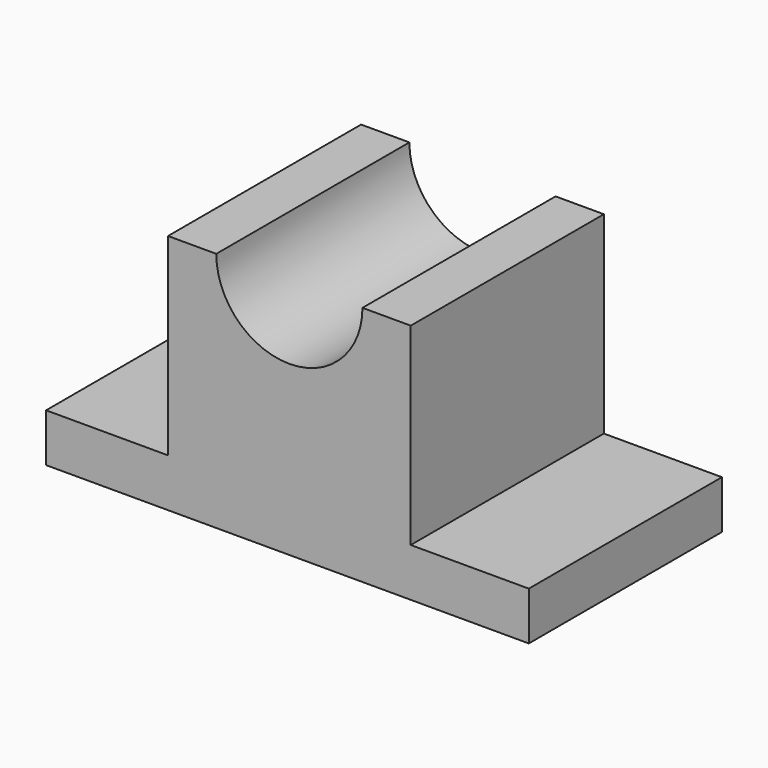
from build123d import *

# Parameters (mm, degrees)
F1_DEPTH = 100


with BuildPart() as f1:
    # F0 (on Front) → F1 (new body)
    with BuildSketch(Plane.XZ):
        with BuildLine():
            Line((-200, 0), (0, 0))
            Line((0, 0), (0, 20))
            Line((0, 20), (-48.923252, 20))
            Line((-48.923252, 20), (-48.923252, 100))
            Line((-48.923252, 100), (-68.923252, 100))
            ThreePointArc((-68.923252, 100), (-99.205654, 69.717598), (-129.488057, 100))
            Line((-129.488057, 100), (-149.488057, 100))
            Line((-149.488057, 100), (-149.488057, 20))
            Line((-149.488057, 20), (-200, 20))
            Line((-200, 20), (-200, 0))
        make_face()
    extrude(amount=F1_DEPTH)


solid = f1.part
